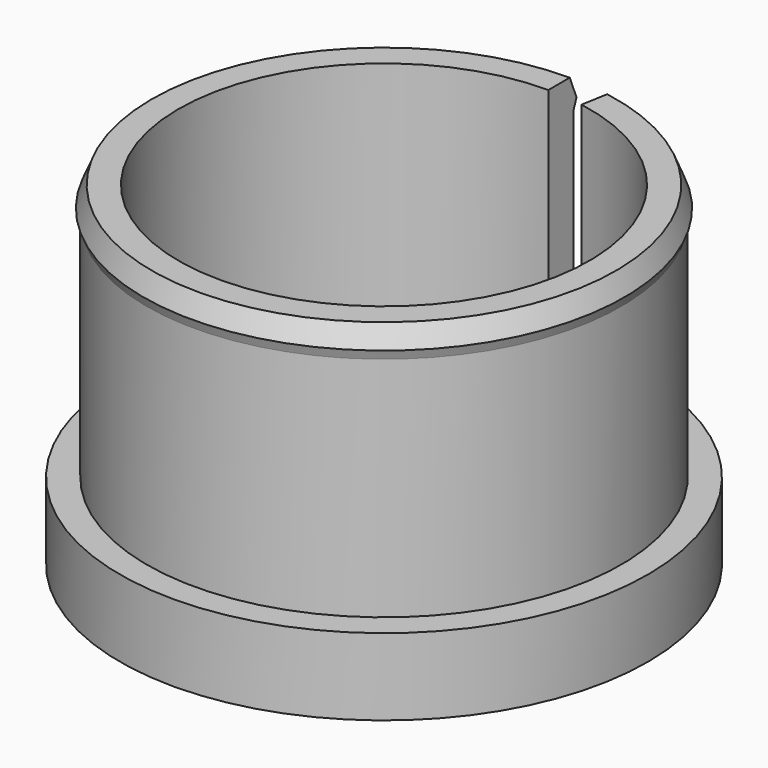
from build123d import *

# Parameters (mm, degrees)
F2_ANGLE = 350


with BuildPart() as f2:
    # F0 (on Right) → F2 (revolve)
    with BuildSketch(Plane.YZ):
        Polygon((7.8105, 12.7), (7.8105, 0), (10.033, 0), (10.033, 2.921), (9.017, 2.921), (9.017, 11.557), (9.14731, 11.915023), (8.8265, 12.7), align=None)
    revolve(axis=Axis((0, 0, 15.063431), (0, 0, 1)), revolution_arc=F2_ANGLE)


solid = f2.part
